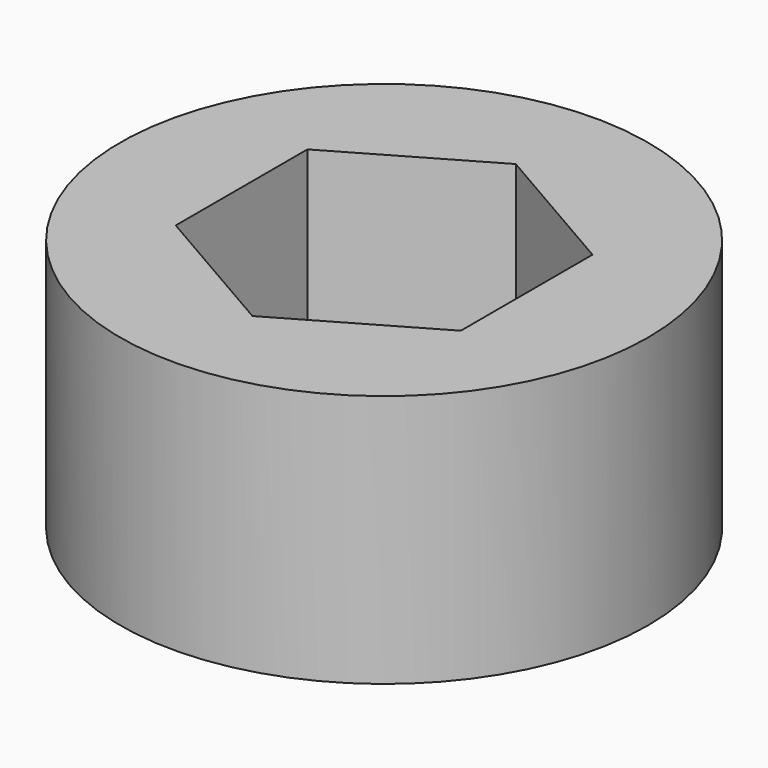
from build123d import *

# Parameters (mm, degrees)
F1_R          = 12.5
F2_DEPTH      = 12
F4_DEPTH      = 25
F4_DEPTH_BACK = 25
F5_OFFSET     = 0.4


with BuildPart() as f2:
    # F1 (on Top) → F2 (new body)
    with BuildSketch(Plane.XY):
        Circle(F1_R)
    extrude(amount=F2_DEPTH)


with BuildPart() as f4:
    # F3 (on face) → F4 (new body, two sides)
    with BuildSketch(Plane.XY.offset(12)) as f4_sk:
        Polygon((0, -7.3323484187), (6.35, -3.6661742094), (6.35, 3.6661742094), (0, 7.3323484187), (-6.35, 3.6661742094), (-6.35, -3.6661742094), align=None)
    extrude(amount=-F4_DEPTH)
    extrude(f4_sk.sketch, amount=F4_DEPTH_BACK)


with BuildPart() as f2_1:
    add(f2.part)

    # F5: cut F4, made larger all round first
    f5_tool = offset(f4.part, amount=F5_OFFSET, kind=Kind.INTERSECTION, mode=Mode.PRIVATE)
    add(f5_tool, mode=Mode.SUBTRACT)


solid = f2_1.part
